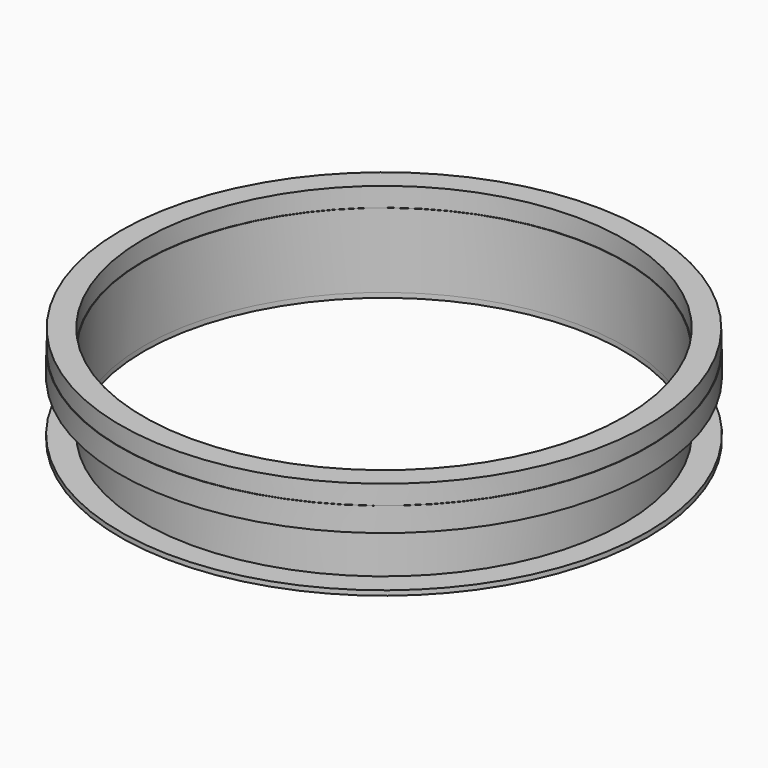
from build123d import *

# Parameters (mm, degrees)
F2_R     = 550
F2_R_2   = 500
F3_DEPTH = 10


with BuildPart() as f1:
    # F0 (on Front) → F1 (revolve)
    with BuildSketch(Plane.XZ):
        Polygon((-500, 255.648908), (-500, 295.648908), (-500, 410.648908), (-501, 410.648908), (-501, 450.648908), (-549, 450.648908), (-549, 410.648908), (-550, 410.648908), (-550, 360.648908), (-501, 360.648908), (-501, 295.648908), (-501, 255.648908), align=None)
    revolve(axis=Axis((0, 0, 3.084838), (0, 0, -1)))

    # F2 (on face) → F3 (join)
    with BuildSketch(Plane(origin=(0, 0, 255.648908), x_dir=(1, 0, 0), z_dir=(0, 0, -1))):
        Circle(F2_R)
        Circle(F2_R_2, mode=Mode.SUBTRACT)
    extrude(amount=F3_DEPTH)


solid = f1.part
